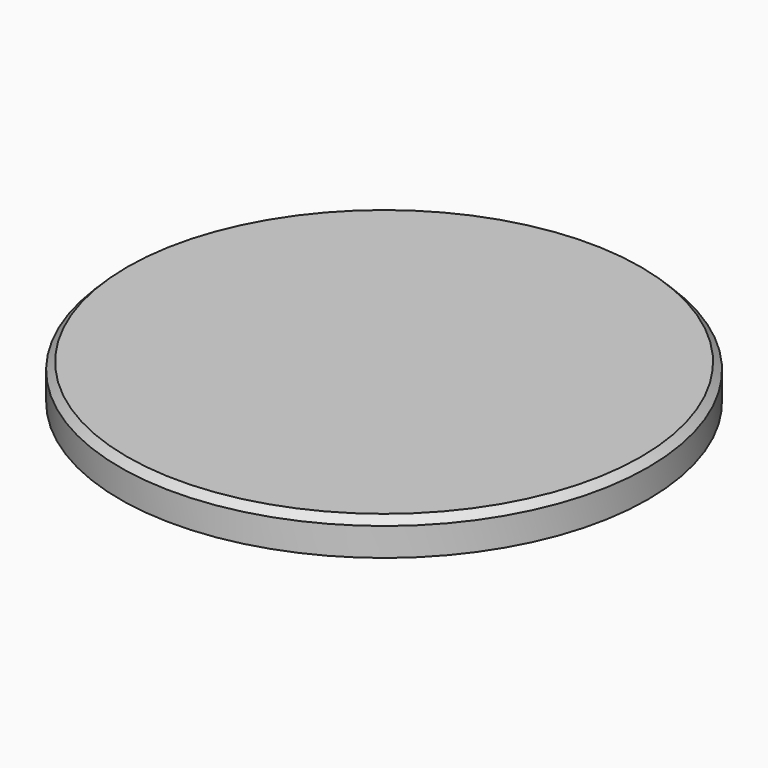
from build123d import *

# Parameters (mm, degrees)
F0_R     = 24.5
F1_DEPTH = 5
F2_R     = 37.5
F2_R_2   = 24.5
F3_DEPTH = 5
F4_SIZE  = 1
F5_SIZE  = 1


with BuildPart() as f1:
    # F0 (on Top) → F1 (new body)
    with BuildSketch(Plane.XY):
        Circle(F0_R)
    extrude(amount=F1_DEPTH)

    # F2 (on face) → F3 (join)
    with BuildSketch(Plane.XY.offset(5)):
        Circle(F2_R)
        Circle(F2_R_2, mode=Mode.SUBTRACT)
        Circle(F2_R_2)
    extrude(amount=F3_DEPTH)

    # F4
    f4_edges = [f1.edges().sort_by_distance(p)[0] for p in [
        (-37.5, 0, 10),
    ]]
    chamfer(f4_edges, length=F4_SIZE)

    # F5
    f5_edges = [f1.edges().sort_by_distance(p)[0] for p in [
        (-24.5, 0, 0),
    ]]
    chamfer(f5_edges, length=F5_SIZE)


solid = f1.part
